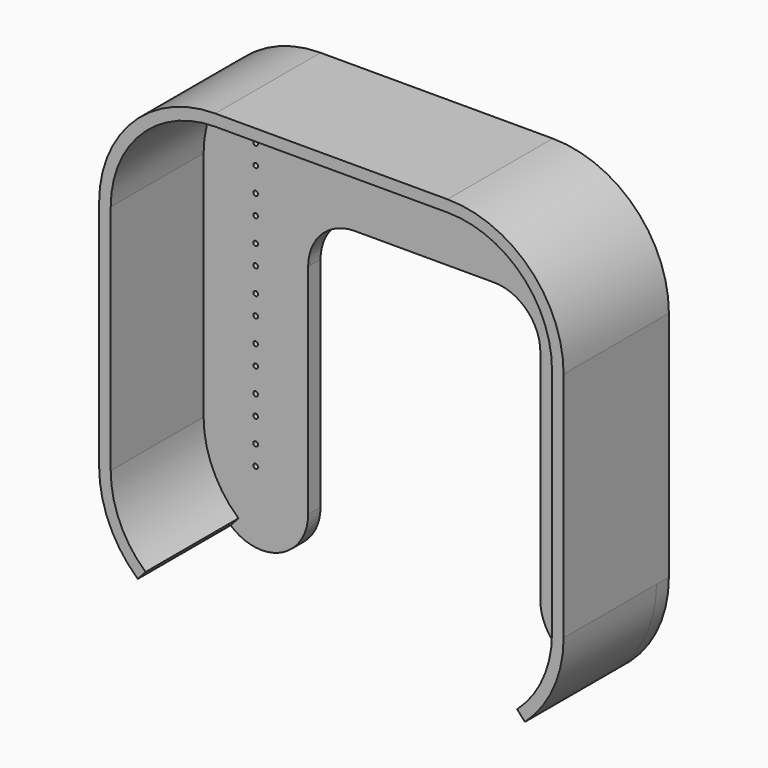
from build123d import *

# Parameters (mm, degrees)
F1_W     = 60
F1_H     = 60
F2_DEPTH = 2
F0_R     = 0.3
F3_DEPTH = 2
F4_R     = 15
F5_W     = 30
F5_H     = 42.5
F6_DEPTH = 2
F7_R     = 6
F9_DEPTH = 15


with BuildPart() as f2:
    # F1 (on Front) → F2 (new body)
    with BuildSketch(Plane.XZ):
        Rectangle(F1_W, F1_H)
    extrude(amount=-F2_DEPTH)

    # F0 (on Front) → F3 (cut)
    with BuildSketch(Plane.XZ):
        with Locations((-21.7804442346, 18.32)):
            Circle(F0_R)
        with Locations((-21.7804442346, 15.78)):
            Circle(F0_R)
        with Locations((-21.7804442346, 12.62)):
            Circle(F0_R)
        with Locations((-21.7804442346, 10.08)):
            Circle(F0_R)
        with Locations((-21.7804442346, 6.92)):
            Circle(F0_R)
        with Locations((-21.7804442346, 4.38)):
            Circle(F0_R)
        with Locations((-21.7804442346, 1.22)):
            Circle(F0_R)
        with Locations((-21.7804442346, -1.32)):
            Circle(F0_R)
        with Locations((-21.7804442346, -4.48)):
            Circle(F0_R)
        with Locations((-21.7804442346, -7.02)):
            Circle(F0_R)
        with Locations((-21.7804442346, -10.18)):
            Circle(F0_R)
        with Locations((-21.7804442346, -12.72)):
            Circle(F0_R)
        with Locations((-21.7804442346, -15.88)):
            Circle(F0_R)
        with Locations((-21.7804442346, -18.42)):
            Circle(F0_R)
        with Locations((21.6231053323, 18.5572249132)):
            Circle(F0_R)
        with Locations((21.6231053323, 16.0172249132)):
            Circle(F0_R)
        with Locations((21.6231053323, 12.8572249132)):
            Circle(F0_R)
        with Locations((21.6231053323, 10.3172249132)):
            Circle(F0_R)
        with Locations((21.6231053323, 7.1572249132)):
            Circle(F0_R)
        with Locations((21.6231053323, 4.6172249132)):
            Circle(F0_R)
        with Locations((21.6231053323, 1.4572249132)):
            Circle(F0_R)
        with Locations((21.6231053323, -1.0827750868)):
            Circle(F0_R)
        with Locations((21.6231053323, -4.2427750868)):
            Circle(F0_R)
        with Locations((21.6231053323, -6.7827750868)):
            Circle(F0_R)
        with Locations((21.6231053323, -9.9427750868)):
            Circle(F0_R)
        with Locations((21.6231053323, -12.4827750868)):
            Circle(F0_R)
        with Locations((21.6231053323, -15.6427750868)):
            Circle(F0_R)
        with Locations((21.6231053323, -18.1827750868)):
            Circle(F0_R)
        with Locations((-18.5336389446, 20.8555777156)):
            Circle(F0_R)
        with Locations((-15.9936389446, 20.8555777156)):
            Circle(F0_R)
        with Locations((-12.8336389446, 20.8555777156)):
            Circle(F0_R)
        with Locations((-10.2936389446, 20.8555777156)):
            Circle(F0_R)
        with Locations((-7.1336389446, 20.8555777156)):
            Circle(F0_R)
        with Locations((-4.5936389446, 20.8555777156)):
            Circle(F0_R)
        with Locations((-1.4336389446, 20.8555777156)):
            Circle(F0_R)
        with Locations((1.1063610554, 20.8555777156)):
            Circle(F0_R)
        with Locations((4.2663610554, 20.8555777156)):
            Circle(F0_R)
        with Locations((6.8063610554, 20.8555777156)):
            Circle(F0_R)
        with Locations((9.9663610554, 20.8555777156)):
            Circle(F0_R)
        with Locations((12.5063610554, 20.8555777156)):
            Circle(F0_R)
        with Locations((15.6663610554, 20.8555777156)):
            Circle(F0_R)
        with Locations((18.2063610554, 20.8555777156)):
            Circle(F0_R)
    extrude(amount=-F3_DEPTH, mode=Mode.SUBTRACT)

    # F4
    f4_edges = [f2.edges().sort_by_distance(p)[0] for p in [
        (-30, 1, 30),
        (30, 1, 30),
        (30, 1, -30),
        (-30, 1, -30),
    ]]
    fillet(f4_edges, radius=F4_R)

    # F5 (on face) → F6 (cut)
    with BuildSketch(Plane.XZ):
        with Locations((0, -8.75)):
            Rectangle(F5_W, F5_H)
    extrude(amount=-F6_DEPTH, mode=Mode.SUBTRACT)

    # F7
    f7_edges = [f2.edges().sort_by_distance(p)[0] for p in [
        (15, 1, -30),
        (-15, 1, -30),
        (-15, 1, 12.5),
        (15, 1, 12.5),
    ]]
    fillet(f7_edges, radius=F7_R)

    # F8 (on face) → F9 (join)
    with BuildSketch(Plane.XZ):
        with BuildLine():
            ThreePointArc((-24, -25.0623058987), (-27.3237575439, -20.5113519213), (-28.5, -15))
            Line((-28.5, -15), (-28.5, 15))
            ThreePointArc((-28.5, 15), (-24.545941546, 24.545941546), (-15, 28.5))
            Line((-15, 28.5), (15, 28.5))
            ThreePointArc((15, 28.5), (24.545941546, 24.545941546), (28.5, 15))
            Line((28.5, 15), (28.5, -15))
            ThreePointArc((28.5, -15), (27.3237575439, -20.5113519213), (24, -25.0623058987))
            Line((24, -25.0623058987), (25, -26.1803398875))
            ThreePointArc((25, -26.1803398875), (28.6930639376, -21.123724357), (30, -15))
            Line((30, -15), (30, 15))
            ThreePointArc((30, 15), (25.6066017178, 25.6066017178), (15, 30))
            Line((15, 30), (-15, 30))
            ThreePointArc((-15, 30), (-25.6066017178, 25.6066017178), (-30, 15))
            Line((-30, 15), (-30, -15))
            ThreePointArc((-30, -15), (-28.6930639376, -21.123724357), (-25, -26.1803398875))
            Line((-25, -26.1803398875), (-24, -25.0623058987))
        make_face()
    extrude(amount=F9_DEPTH)


solid = f2.part
